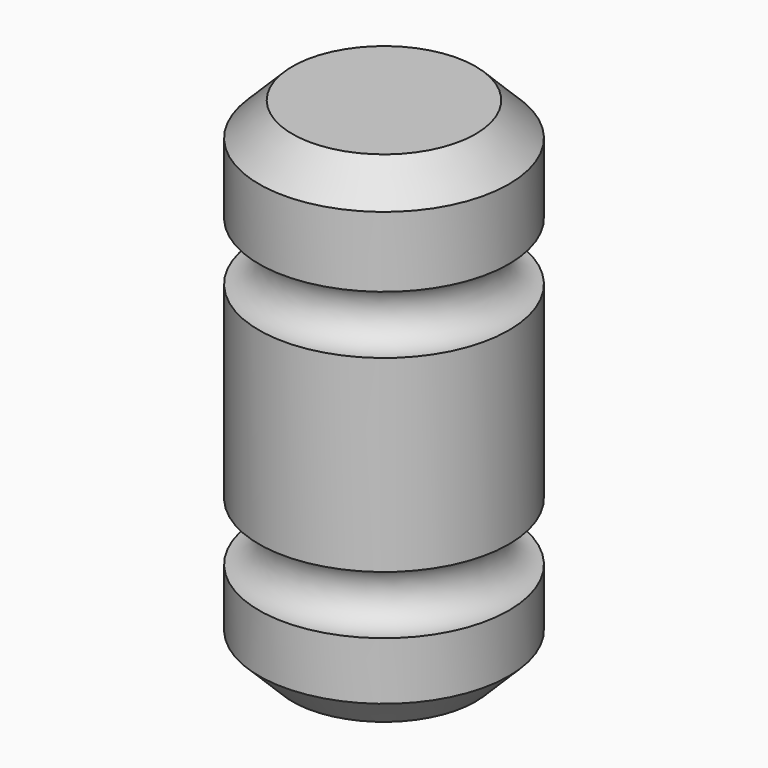
from build123d import *

# Parameters (mm, degrees)
F2_SIZE = 5.08


with BuildPart() as f1:
    # F0 (on Front) → F1 (revolve)
    with BuildSketch(Plane.XZ):
        with BuildLine():
            Line((-19.05, 0), (0, 0))
            Line((0, 0), (0, 13.886647))
            ThreePointArc((0, 13.886647), (-4.445, 18.331647), (0, 22.776647))
            Line((0, 22.776647), (0, 51.508222))
            ThreePointArc((0, 51.508222), (-4.441492, 55.949714), (0, 60.391206))
            Line((0, 60.391206), (0, 76.2))
            Line((0, 76.2), (-19.05, 76.2))
            Line((-19.05, 76.2), (-19.05, 0))
        make_face()
    revolve(axis=Axis((-19.05, 0, 38.1), (0, 0, -1)))

    # F2
    f2_edges = [f1.edges().sort_by_distance(p)[0] for p in [
        (-38.1, 0, 76.2),
        (-38.1, 0, 0),
    ]]
    chamfer(f2_edges, length=F2_SIZE)


solid = f1.part
